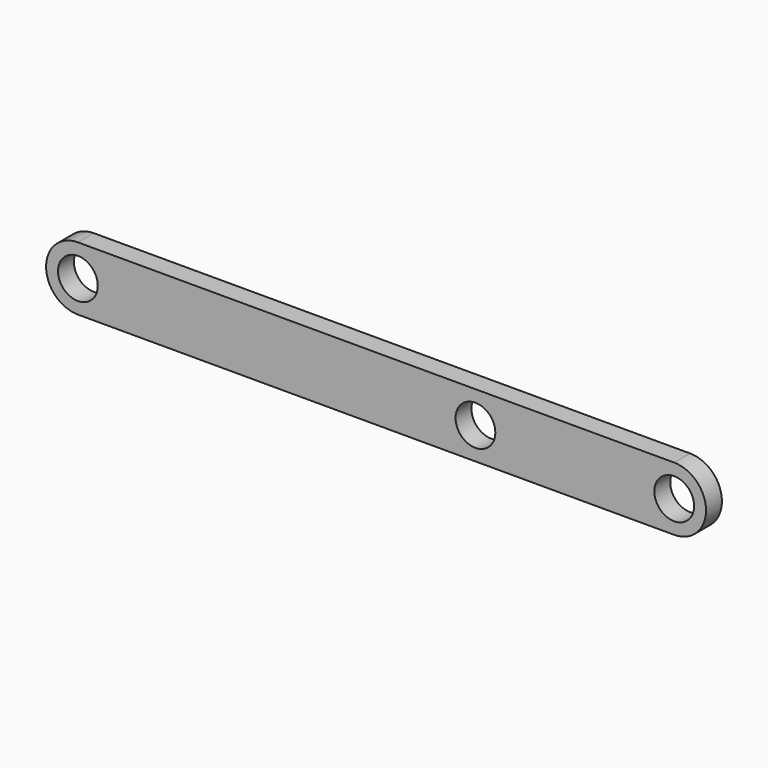
from build123d import *

# Parameters (mm, degrees)
F0_R     = 63.5
F1_DEPTH = 31.75


with BuildPart() as f1:
    # F0 (on Front) → F1 (new body, symmetric)
    with BuildSketch(Plane.XZ):
        with BuildLine():
            Line((952.5, 101.6), (-952.5, 101.6))
            ThreePointArc((-952.5, 101.6), (-1054.1, 0), (-952.5, -101.6))
            Line((-952.5, -101.6), (952.5, -101.6))
            ThreePointArc((952.5, -101.6), (1054.1, 0), (952.5, 101.6))
        make_face()
        with Locations((-952.5, 0)):
            Circle(F0_R, mode=Mode.SUBTRACT)
        with Locations((317.5, 0)):
            Circle(F0_R, mode=Mode.SUBTRACT)
        with Locations((952.5, 0)):
            Circle(F0_R, mode=Mode.SUBTRACT)
    extrude(amount=F1_DEPTH, both=True)


solid = f1.part
